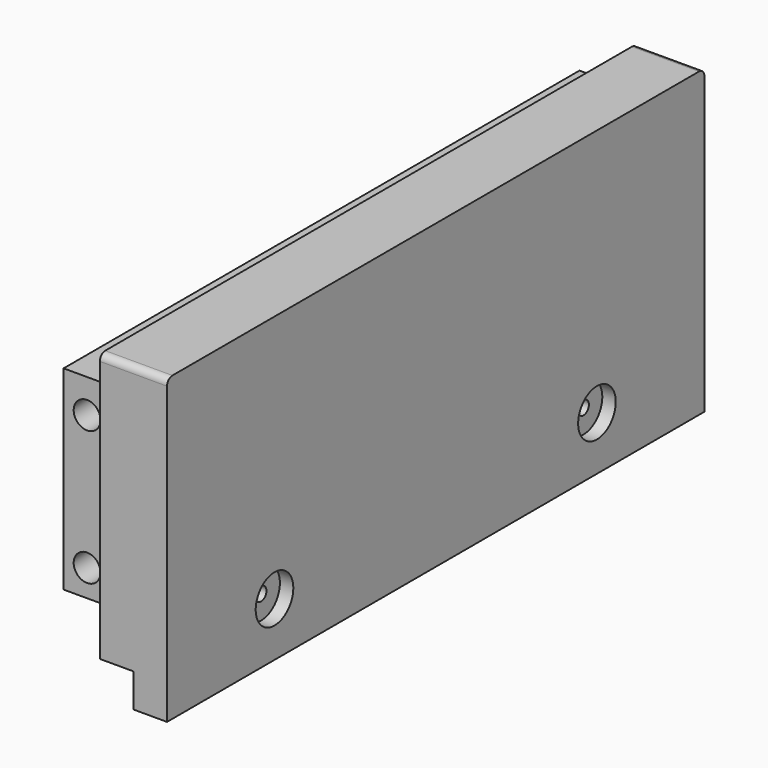
from build123d import *

# Parameters (mm, degrees)
SKETCH005_W             = 10
SKETCH005_H             = 100
PAD003_DEPTH            = 45
SKETCH006_W             = 10
SKETCH006_H             = 100
POCKET002_DEPTH         = 5
SKETCH007_W             = 96
SKETCH007_H             = 29
PAD004_DEPTH            = 7
SKETCH014_R             = 1
POCKET007_DEPTH         = 10
SKETCH015_R             = 3.5
POCKET008_DEPTH         = 2
SKETCH016_R             = 2
POCKET009_DEPTH         = 5
SKETCH017_R             = 2
POCKET010_DEPTH         = 5
FILLET001_R             = 1
BODY003_PLACEMENT_ANGLE = 180


with BuildPart() as part:
    # Sketch005 → Pad003 (new body)
    with BuildSketch(Plane.XY):
        with Locations((5, 50)):
            Rectangle(SKETCH005_W, SKETCH005_H)
    extrude(amount=PAD003_DEPTH)

    # Sketch006 (on Face5 of Pad003) → Pocket002 (cut)
    with BuildSketch(Plane(origin=(0, 0, 0), x_dir=(1, 0, 0), z_dir=(0, 0, -1))):
        with Locations((10, -50)):
            Rectangle(SKETCH006_W, SKETCH006_H)
    extrude(amount=-POCKET002_DEPTH, mode=Mode.SUBTRACT)

    # Sketch007 (on Face5 of Pocket002) → Pad004 (join)
    with BuildSketch(Plane.YZ.offset(10)):
        with Locations((50, 25.5)):
            Rectangle(SKETCH007_W, SKETCH007_H)
    extrude(amount=PAD004_DEPTH)

    # Sketch014 (on Face7 of Pad004) → Pocket007 (cut)
    with BuildSketch(Plane(origin=(0, 0, 0), x_dir=(0, -1, 0), z_dir=(-1, 0, 0))):
        with Locations((-20, 8)):
            Circle(SKETCH014_R)
        with Locations((-80, 8)):
            Circle(SKETCH014_R)
    extrude(amount=-POCKET007_DEPTH, mode=Mode.SUBTRACT)

    # Sketch015 (on Face7 of Pocket007) → Pocket008 (cut)
    with BuildSketch(Plane(origin=(0, 0, 0), x_dir=(0, -1, 0), z_dir=(-1, 0, 0))):
        with Locations((-20, 8)):
            Circle(SKETCH015_R)
        with Locations((-80, 8)):
            Circle(SKETCH015_R)
    extrude(amount=-POCKET008_DEPTH, mode=Mode.SUBTRACT)

    # Sketch016 (on Face9 of Pocket008) → Pocket009 (cut)
    with BuildSketch(Plane.XZ.offset(-2)):
        with Locations((13.5, 15)):
            Circle(SKETCH016_R)
        with Locations((13.5, 35)):
            Circle(SKETCH016_R)
    extrude(amount=-POCKET009_DEPTH, mode=Mode.SUBTRACT)

    # Sketch017 (on Face12 of Pocket009) → Pocket010 (cut)
    with BuildSketch(Plane(origin=(0, 98, 0), x_dir=(-1, 0, 0), z_dir=(0, 1, 0))):
        with Locations((-13.5, 15)):
            Circle(SKETCH017_R)
        with Locations((-13.5, 35)):
            Circle(SKETCH017_R)
    extrude(amount=-POCKET010_DEPTH, mode=Mode.SUBTRACT)

    # Fillet001
    fillet001_edges = [part.edges().sort_by_distance(p)[0] for p in [
        (5, 0, 45),
        (5, 100, 45),
    ]]
    fillet(fillet001_edges, radius=FILLET001_R)


with BuildPart() as part_1:
    # Body002 placement: moved
    add(part.part.moved(Location((-10, 0, -40))))


with BuildPart() as part_2:
    # Body003 placement: moved
    add(part_1.part.moved(Location((302, 100, 0))).rotate(Axis((302, 100, 0), (0, 0, 1)), BODY003_PLACEMENT_ANGLE))


solid = part_2.part
